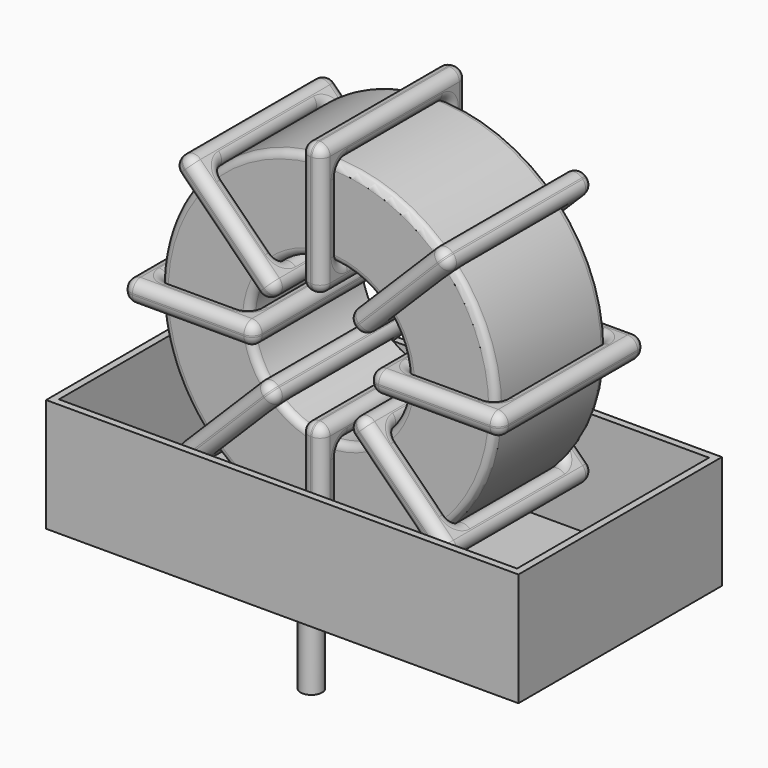
from build123d import *

# Parameters (mm, degrees)
SKETCH001_R       = 0.75
PAD001_DEPTH      = 1.5
PAD001_DEPTH_BACK = 7
SKETCH_R          = 11.708
SKETCH_R_2        = 5.503333
PAD_DEPTH         = 4.85
FILLET_R          = 0.5
SKETCH003_W       = 9.204667
SKETCH003_H       = 12.7
SKETCH003_W_2     = 6.204667
SKETCH003_H_2     = 9.7
PAD002_DEPTH      = 0.75
FILLET001_R       = 0.705
SKETCH004_W       = 9.204667
SKETCH004_H       = 12.7
SKETCH004_W_2     = 6.204667
SKETCH004_H_2     = 9.7
PAD003_DEPTH      = 0.75
FILLET002_R       = 0.705
SKETCH005_W       = 9.204667
SKETCH005_H       = 12.7
SKETCH005_W_2     = 6.204667
SKETCH005_H_2     = 9.7
PAD004_DEPTH      = 0.75
FILLET003_R       = 0.705
SKETCH006_W       = 9.204667
SKETCH006_H       = 12.7
SKETCH006_W_2     = 6.204667
SKETCH006_H_2     = 9.7
PAD005_DEPTH      = 0.75
FILLET004_R       = 0.705
SKETCH007_W       = 33.02
SKETCH007_H       = 17.78
PAD006_DEPTH      = 0.5
SKETCH008_W       = 33.02
SKETCH008_H       = 17.78
SKETCH008_W_2     = 32.02
SKETCH008_H_2     = 16.78
PAD007_DEPTH      = 7.9248


with BuildPart() as pad001:
    # Sketch001 → Pad001 (new body, two sides)
    with BuildSketch(Plane.XY.offset(2)) as pad001_sk:
        Circle(SKETCH001_R)
        with Locations((0, -12.7)):
            Circle(SKETCH001_R)
    extrude(amount=PAD001_DEPTH)
    extrude(pad001_sk.sketch, amount=-PAD001_DEPTH_BACK)


with BuildPart() as fillet_body:
    # Sketch → Pad (new body, symmetric)
    with BuildSketch(Plane.XZ.offset(6.35)):
        with Locations((0, 15.208)):
            Circle(SKETCH_R)
        with Locations((0, 15.208)):
            Circle(SKETCH_R_2, mode=Mode.SUBTRACT)
    extrude(amount=PAD_DEPTH, both=True)

    # Fillet
    fillet_edges = [fillet_body.edges().sort_by_distance(p)[0] for p in [
        (-5.503333, -11.2, 15.208),
        (-11.708, -11.2, 15.208),
        (-11.708, -1.5, 15.208),
    ]]
    fillet(fillet_edges, radius=FILLET_R)


with BuildPart() as fillet001:
    # Sketch003 → Pad002 (new body, symmetric)
    with BuildSketch(Plane(origin=(0, 0, 15.208), x_dir=(1, 0, 0), z_dir=(0, 0, -1))):
        with Locations((-8.605666, 6.35)):
            Rectangle(SKETCH003_W, SKETCH003_H)
        with Locations((-8.605666, 6.35)):
            Rectangle(SKETCH003_W_2, SKETCH003_H_2, mode=Mode.SUBTRACT)
        with Locations((8.605666, 6.35)):
            Rectangle(SKETCH003_W, SKETCH003_H)
        with Locations((8.605666, 6.35)):
            Rectangle(SKETCH003_W_2, SKETCH003_H_2, mode=Mode.SUBTRACT)
    extrude(amount=PAD002_DEPTH, both=True)

    # Fillet001
    fillet001_edges = [fillet001.edges().sort_by_distance(p)[0] for p in [
        (-5.503333, -11.2, 15.208),
        (-5.503333, -1.5, 15.208),
        (-5.503333, -6.35, 15.958),
        (-5.503333, -6.35, 14.458),
        (-13.208, -12.7, 15.208),
        (-4.003333, -12.7, 15.208),
        (-8.605667, -12.7, 15.958),
        (-8.605667, -12.7, 14.458),
        (-4.003333, 0, 15.208),
        (-4.003333, -6.35, 15.958),
        (-4.003333, -6.35, 14.458),
        (5.503333, -11.2, 15.208),
        (11.708, -11.2, 15.208),
        (8.605667, -11.2, 15.958),
        (8.605667, -11.2, 14.458),
        (11.708, -1.5, 15.208),
        (11.708, -6.35, 15.958),
        (11.708, -6.35, 14.458),
        (4.003333, -12.7, 15.208),
        (13.208, -12.7, 15.208),
        (8.605667, -12.7, 15.958),
        (8.605667, -12.7, 14.458),
        (13.208, 0, 15.208),
        (13.208, -6.35, 15.958),
        (13.208, -6.35, 14.458),
        (-11.708, -11.2, 15.208),
        (-8.605667, -11.2, 15.958),
        (-8.605667, -11.2, 14.458),
        (5.503333, -1.5, 15.208),
        (5.503333, -6.35, 15.958),
        (5.503333, -6.35, 14.458),
        (8.605667, -1.5, 15.958),
        (8.605667, -1.5, 14.458),
        (4.003333, 0, 15.208),
        (8.605667, 0, 15.958),
        (8.605667, 0, 14.458),
        (4.003333, -6.35, 15.958),
        (4.003333, -6.35, 14.458),
        (-13.208, 0, 15.208),
        (-8.605667, 0, 15.958),
        (-8.605667, 0, 14.458),
        (-13.208, -6.35, 15.958),
        (-13.208, -6.35, 14.458),
        (-11.708, -1.5, 15.208),
        (-11.708, -6.35, 15.958),
        (-11.708, -6.35, 14.458),
        (-8.605667, -1.5, 15.958),
        (-8.605667, -1.5, 14.458),
    ]]
    fillet(fillet001_edges, radius=FILLET001_R)


with BuildPart() as fillet002:
    # Sketch004 → Pad003 (new body, symmetric)
    with BuildSketch(Plane(origin=(0, 0, 15.208), x_dir=(0.707108, 0, 0.707106), z_dir=(0.707106, 0, -0.707108))):
        with Locations((-8.605666, 6.35)):
            Rectangle(SKETCH004_W, SKETCH004_H)
        with Locations((-8.605666, 6.35)):
            Rectangle(SKETCH004_W_2, SKETCH004_H_2, mode=Mode.SUBTRACT)
        with Locations((8.605666, 6.35)):
            Rectangle(SKETCH004_W, SKETCH004_H)
        with Locations((8.605666, 6.35)):
            Rectangle(SKETCH004_W_2, SKETCH004_H_2, mode=Mode.SUBTRACT)
    extrude(amount=PAD003_DEPTH, both=True)

    # Fillet002
    fillet002_edges = [fillet002.edges().sort_by_distance(p)[0] for p in [
        (8.278816, -11.2, 23.486797),
        (8.278816, -1.5, 23.486797),
        (7.748486, -6.35, 24.017127),
        (8.809145, -6.35, 22.956466),
        (9.339477, 0, 24.547456),
        (2.830787, 0, 18.038781),
        (5.554803, 0, 21.823449),
        (6.615462, 0, 20.762788),
        (2.830787, -12.7, 18.038781),
        (2.300458, -6.35, 18.569112),
        (3.361117, -6.35, 17.50845),
        (-8.278816, -11.2, 6.929203),
        (-3.891449, -11.2, 11.31656),
        (-6.615462, -11.2, 9.653212),
        (-5.554803, -11.2, 8.592551),
        (-3.891449, -1.5, 11.31656),
        (-4.421778, -6.35, 11.846891),
        (-3.361119, -6.35, 10.786229),
        (-2.830787, 0, 12.377219),
        (-9.339477, 0, 5.868544),
        (-6.615462, 0, 9.653212),
        (-5.554803, 0, 8.592551),
        (-9.339477, -12.7, 5.868544),
        (-9.869807, -6.35, 6.398875),
        (-8.809148, -6.35, 5.338214),
        (3.891449, -11.2, 19.09944),
        (5.554803, -11.2, 21.823449),
        (6.615462, -11.2, 20.762788),
        (-8.278816, -1.5, 6.929203),
        (-8.809145, -6.35, 7.459534),
        (-7.748486, -6.35, 6.398873),
        (-6.615462, -1.5, 9.653212),
        (-5.554803, -1.5, 8.592551),
        (-2.830787, -12.7, 12.377219),
        (-6.615462, -12.7, 9.653212),
        (-5.554803, -12.7, 8.592551),
        (-3.361117, -6.35, 12.90755),
        (-2.300458, -6.35, 11.846888),
        (9.339477, -12.7, 24.547456),
        (5.554803, -12.7, 21.823449),
        (6.615462, -12.7, 20.762788),
        (8.809148, -6.35, 25.077786),
        (9.869807, -6.35, 24.017125),
        (3.891449, -1.5, 19.09944),
        (3.361119, -6.35, 19.629771),
        (4.421778, -6.35, 18.569109),
        (5.554803, -1.5, 21.823449),
        (6.615462, -1.5, 20.762788),
    ]]
    fillet(fillet002_edges, radius=FILLET002_R)


with BuildPart() as fillet003:
    # Sketch005 → Pad004 (new body, symmetric)
    with BuildSketch(Plane(origin=(0, 0, 15.208), x_dir=(0.707108, 0, -0.707106), z_dir=(-0.707106, 0, -0.707108))):
        with Locations((-8.605666, 6.35)):
            Rectangle(SKETCH005_W, SKETCH005_H)
        with Locations((-8.605666, 6.35)):
            Rectangle(SKETCH005_W_2, SKETCH005_H_2, mode=Mode.SUBTRACT)
        with Locations((8.605666, 6.35)):
            Rectangle(SKETCH005_W, SKETCH005_H)
        with Locations((8.605666, 6.35)):
            Rectangle(SKETCH005_W_2, SKETCH005_H_2, mode=Mode.SUBTRACT)
    extrude(amount=PAD004_DEPTH, both=True)

    # Fillet003
    fillet003_edges = [fillet003.edges().sort_by_distance(p)[0] for p in [
        (-3.891449, -11.2, 19.09944),
        (-3.891449, -1.5, 19.09944),
        (-3.361119, -6.35, 19.629771),
        (-4.421778, -6.35, 18.569109),
        (-9.339477, -12.7, 24.547456),
        (-9.339477, 0, 24.547456),
        (-8.809148, -6.35, 25.077786),
        (-9.869807, -6.35, 24.017125),
        (-2.830787, -12.7, 18.038781),
        (-5.554803, 0, 21.823449),
        (-6.615462, 0, 20.762788),
        (3.891449, -11.2, 11.31656),
        (8.278816, -11.2, 6.929203),
        (6.615462, -11.2, 9.653212),
        (5.554803, -11.2, 8.592551),
        (8.278816, -1.5, 6.929203),
        (8.809145, -6.35, 7.459534),
        (7.748486, -6.35, 6.398873),
        (2.830787, -12.7, 12.377219),
        (9.339477, -12.7, 5.868544),
        (6.615462, -12.7, 9.653212),
        (5.554803, -12.7, 8.592551),
        (9.339477, 0, 5.868544),
        (9.869807, -6.35, 6.398875),
        (8.809148, -6.35, 5.338214),
        (-8.278816, -11.2, 23.486797),
        (-5.554803, -11.2, 21.823449),
        (-6.615462, -11.2, 20.762788),
        (3.891449, -1.5, 11.31656),
        (4.421778, -6.35, 11.846891),
        (3.361119, -6.35, 10.786229),
        (6.615462, -1.5, 9.653212),
        (5.554803, -1.5, 8.592551),
        (2.830787, 0, 12.377219),
        (6.615462, 0, 9.653212),
        (5.554803, 0, 8.592551),
        (3.361117, -6.35, 12.90755),
        (2.300458, -6.35, 11.846888),
        (-2.830787, 0, 18.038781),
        (-2.300458, -6.35, 18.569112),
        (-3.361117, -6.35, 17.50845),
        (-5.554803, -12.7, 21.823449),
        (-6.615462, -12.7, 20.762788),
        (-8.278816, -1.5, 23.486797),
        (-7.748486, -6.35, 24.017127),
        (-8.809145, -6.35, 22.956466),
        (-5.554803, -1.5, 21.823449),
        (-6.615462, -1.5, 20.762788),
    ]]
    fillet(fillet003_edges, radius=FILLET003_R)


with BuildPart() as fillet004:
    # Sketch006 → Pad005 (new body, symmetric)
    with BuildSketch(Plane(origin=(0, 0, 15.208), x_dir=(0, 0, 1), z_dir=(1, 0, 0))):
        with Locations((-8.605666, 6.35)):
            Rectangle(SKETCH006_W, SKETCH006_H)
        with Locations((-8.605666, 6.35)):
            Rectangle(SKETCH006_W_2, SKETCH006_H_2, mode=Mode.SUBTRACT)
        with Locations((8.605666, 6.35)):
            Rectangle(SKETCH006_W, SKETCH006_H)
        with Locations((8.605666, 6.35)):
            Rectangle(SKETCH006_W_2, SKETCH006_H_2, mode=Mode.SUBTRACT)
    extrude(amount=PAD005_DEPTH, both=True)

    # Fillet004
    fillet004_edges = [fillet004.edges().sort_by_distance(p)[0] for p in [
        (0, -11.2, 9.704667),
        (0, -1.5, 9.704667),
        (-0.75, -6.35, 9.704667),
        (0.75, -6.35, 9.704667),
        (0, -12.7, 2),
        (0, -12.7, 11.204667),
        (-0.75, -12.7, 6.602333),
        (0.75, -12.7, 6.602333),
        (0, 0, 11.204667),
        (-0.75, -6.35, 11.204667),
        (0.75, -6.35, 11.204667),
        (0, -11.2, 20.711333),
        (0, -11.2, 26.916),
        (-0.75, -11.2, 23.813667),
        (0.75, -11.2, 23.813667),
        (0, -1.5, 26.916),
        (-0.75, -6.35, 26.916),
        (0.75, -6.35, 26.916),
        (0, -12.7, 19.211333),
        (0, -12.7, 28.416),
        (-0.75, -12.7, 23.813667),
        (0.75, -12.7, 23.813667),
        (0, 0, 28.416),
        (-0.75, -6.35, 28.416),
        (0.75, -6.35, 28.416),
        (0, -11.2, 3.5),
        (-0.75, -11.2, 6.602333),
        (0.75, -11.2, 6.602333),
        (0, -1.5, 20.711333),
        (-0.75, -6.35, 20.711333),
        (0.75, -6.35, 20.711333),
        (-0.75, -1.5, 23.813667),
        (0.75, -1.5, 23.813667),
        (0, 0, 19.211333),
        (-0.75, 0, 23.813667),
        (0.75, 0, 23.813667),
        (-0.75, -6.35, 19.211333),
        (0.75, -6.35, 19.211333),
        (0, 0, 2),
        (-0.75, 0, 6.602333),
        (0.75, 0, 6.602333),
        (-0.75, -6.35, 2),
        (0.75, -6.35, 2),
        (0, -1.5, 3.5),
        (-0.75, -6.35, 3.5),
        (0.75, -6.35, 3.5),
        (-0.75, -1.5, 6.602333),
        (0.75, -1.5, 6.602333),
    ]]
    fillet(fillet004_edges, radius=FILLET004_R)


with BuildPart() as pad006:
    # Sketch007 → Pad006 (new body)
    with BuildSketch(Plane.XY.offset(0.5)):
        with Locations((0, -6.35)):
            Rectangle(SKETCH007_W, SKETCH007_H)
    extrude(amount=PAD006_DEPTH)


with BuildPart() as pad007:
    # Sketch008 → Pad007 (new body)
    with BuildSketch(Plane.XY.offset(0.5)):
        with Locations((0, -6.35)):
            Rectangle(SKETCH008_W, SKETCH008_H)
        with Locations((0, -6.35)):
            Rectangle(SKETCH008_W_2, SKETCH008_H_2, mode=Mode.SUBTRACT)
    extrude(amount=PAD007_DEPTH)


solid = Compound([pad001.part, fillet_body.part, fillet001.part, fillet002.part, fillet003.part, fillet004.part, pad006.part, pad007.part])
